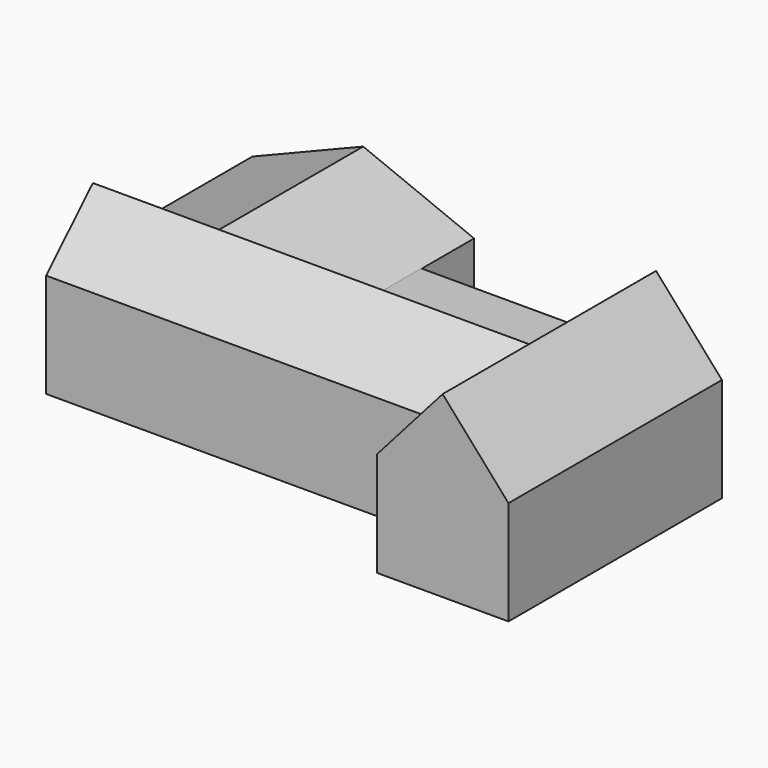
from build123d import *

# Parameters (mm, degrees)
F0_W     = 62.7026483417
F0_H     = 49.5783016086
F1_DEPTH = 127
F4_DEPTH = 185.928
F7_DEPTH = 67.056
F8_W     = 80.4015269012
F8_H     = 35.6574634314
F9_DEPTH = 49.784


with BuildPart() as f1:
    # F0 (on Front) → F1 (new body)
    with BuildSketch(Plane.XZ):
        with Locations((31.3513241708, 24.7891508043)):
            Rectangle(F0_W, F0_H)
        Polygon((31.3513241708, 85.1031681778), (0, 49.5783016086), (62.7026483417, 49.5783016086), align=None)
    extrude(amount=F1_DEPTH)

    # F2 (on face) → F3 (join, up to the next surface of F1)
    with BuildSketch(Plane(origin=(0, 0, 0), x_dir=(0, -1, 0), z_dir=(-1, 0, 0))):
        Polygon((91.3425365686, 49.5783016086), (63.5, 77.0548433065), (35.6574634314, 49.5783016086), (35.6574634314, 0), (91.3425365686, 0), align=None)
    extrude(until=Until.NEXT, dir=(1, 0, 0))

    # F2 (on face) → F4 (join)
    with BuildSketch(Plane(origin=(0, 0, 0), x_dir=(0, -1, 0), z_dir=(-1, 0, 0))):
        Polygon((91.3425365686, 49.5783016086), (63.5, 77.0548433065), (35.6574634314, 49.5783016086), (35.6574634314, 0), (91.3425365686, 0), align=None)
    extrude(amount=F4_DEPTH)

    # F5 (on face) → F6 (join, up to the next surface of F1)
    with BuildSketch(Plane(origin=(0, -35.6574634314, 0), x_dir=(-1, 0, 0), z_dir=(0, 1, 0))):
        Polygon((80.4015269012, 49.5783016086), (185.928, 49.5783016086), (133.1647634506, 70.9294825792), align=None)
    extrude(until=Until.NEXT, dir=(0, -1, 0))

    # F5 (on face) → F7 (join)
    with BuildSketch(Plane(origin=(0, -35.6574634314, 0), x_dir=(-1, 0, 0), z_dir=(0, 1, 0))):
        Polygon((80.4015269012, 0), (185.928, 0), (185.928, 49.5783016086), (133.1647634506, 70.9294825792), (80.4015269012, 49.5783016086), align=None)
    extrude(amount=F7_DEPTH)


with BuildPart() as f9:
    # F8 (on face) → F9 (new body)
    with BuildSketch(Plane(origin=(0, 0, 0), x_dir=(1, 0, 0), z_dir=(0, 0, -1))):
        with Locations((-40.2007634506, 17.8287317157)):
            Rectangle(F8_W, F8_H)
    extrude(amount=-F9_DEPTH)


solid = Compound([f1.part, f9.part])
